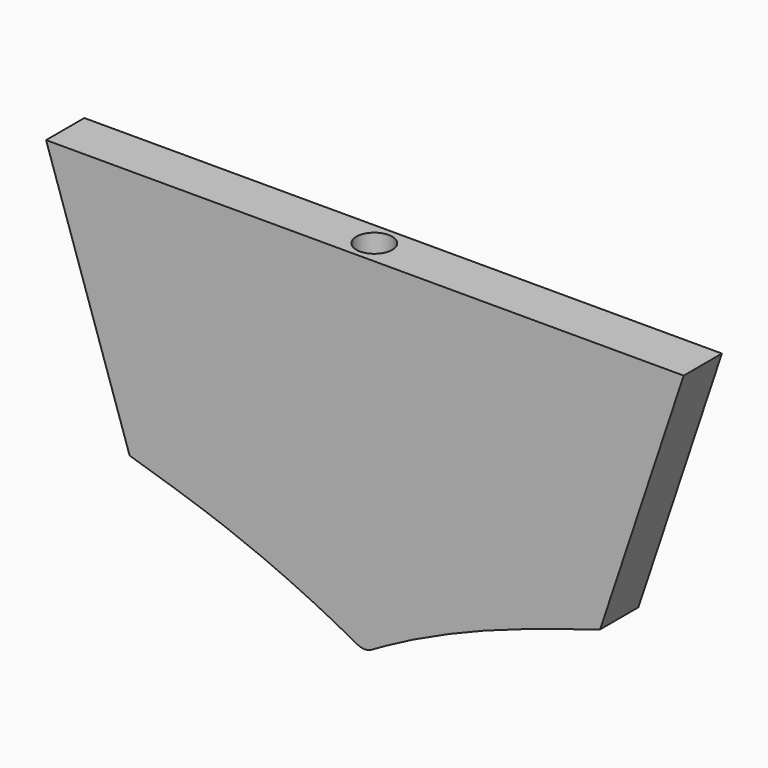
from build123d import *

# Parameters (mm, degrees)
F1_DEPTH = 50.8
F2_R     = 19.05
F3_DEPTH = 228.6


with BuildPart() as f1:
    # F0 (on Front) → F1 (new body)
    with BuildSketch(Plane.XZ):
        with BuildLine():
            Line((349.0497140814, 146.3670476556), (-328.4758681608, 146.3670476556))
            Line((-328.4758681608, 146.3670476556), (-239.7130770397, -119.9213257077))
            add(Edge.make_bspline(
                [(260.2869229603, -119.9213257077), (212.8087892257, -134.7091077853), (126.1669554708, -161.6950159411), (33.1756173268, -207.55120633), (10.2281408015, -223.6239788755), (-12.7327769819, -208.5390211172), (-118.3132676866, -157.344234938), (-198.1904567747, -132.7211584048), (-239.7130770397, -119.9213257077)],
                knots=[0, 0, 0, 0, 0.2257897109, 0.4120388283, 0.4993910101, 0.586231036, 0.7849101631, 1, 1, 1, 1], degree=3))
            Line((260.2869229603, -119.9213257077), (349.0497140814, 146.3670476556))
        make_face()
    extrude(amount=F1_DEPTH)

    # F2 (on face) → F3 (cut)
    with BuildSketch(Plane.XY.offset(146.3670476556)):
        with Locations((0, -25.4)):
            Circle(F2_R)
    extrude(amount=-F3_DEPTH, mode=Mode.SUBTRACT)


solid = f1.part
